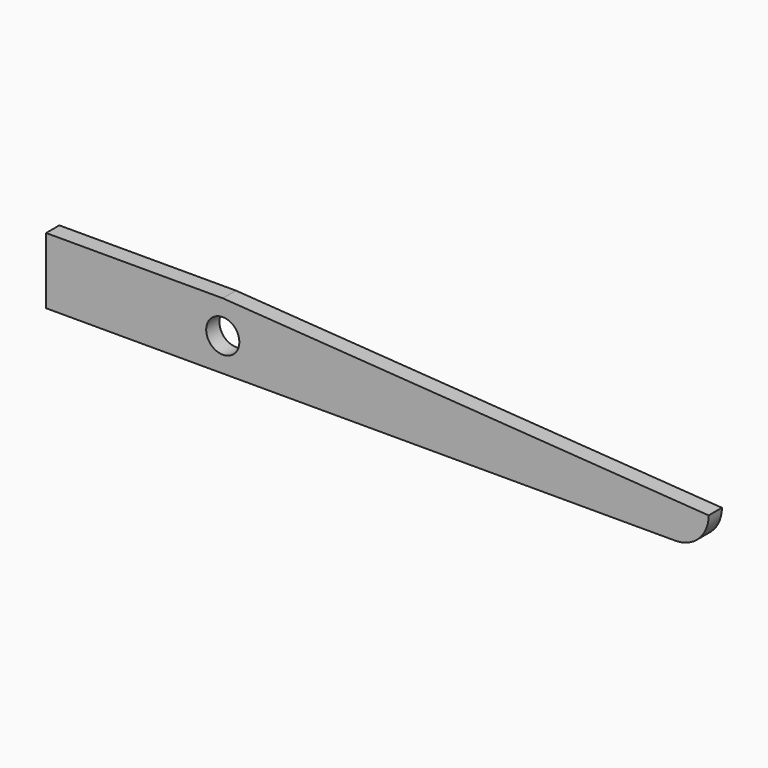
from build123d import *

# Parameters (mm, degrees)
F0_R     = 1.5
F1_DEPTH = 1.5


with BuildPart() as f1:
    # F0 (on Front) → F1 (new body)
    with BuildSketch(Plane.XZ):
        with BuildLine():
            Line((0, 3), (-16, 3))
            Line((-16, 3), (-16, -3))
            Line((-16, -3), (41, -3))
            ThreePointArc((41, -3), (43.12132, -2.12132), (44, 0))
            Line((44, 0), (0, 3))
        make_face()
        Circle(F0_R, mode=Mode.SUBTRACT)
    extrude(amount=F1_DEPTH)


solid = f1.part
